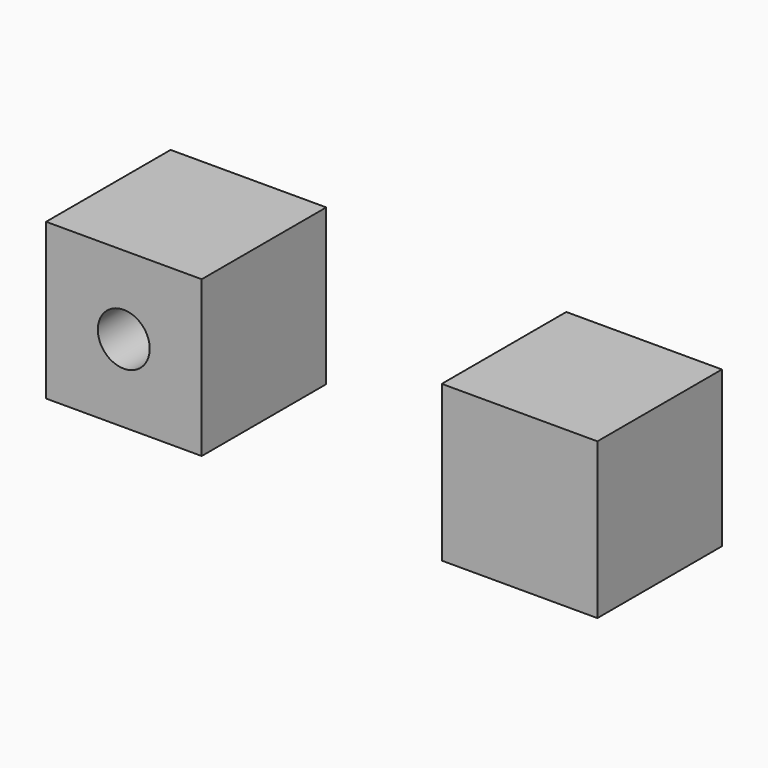
from build123d import *

# Parameters (mm, degrees)
F0_W      = 76.2
F0_H      = 76.2
F1_DEPTH  = 76.2
F4_D      = 25.4
F5_W      = 25.4
F5_H      = 25.4
F6_DEPTH  = 12.7
F7_R      = 12.7
F8_DEPTH  = 12.7
F9_W      = 76.2
F9_H      = 76.2
F10_DEPTH = 76.2


with BuildPart() as f1:
    # F0 (on Top) → F1 (new body)
    with BuildSketch(Plane.XY):
        with Locations((-130.014847, -124.276404)):
            Rectangle(F0_W, F0_H)
    extrude(amount=F1_DEPTH)

    # F4 (through all)
    with Locations(Plane.XZ.offset(162.376404)):
        with Locations((-130.084187, 37.944168)):
            Hole(F4_D / 2)

    # F5 (on face) → F6 (join)
    with BuildSketch(Plane(origin=(0, 0, 0), x_dir=(1, 0, 0), z_dir=(0, 0, -1))):
        with Locations((-130.014847, 124.276404)):
            Rectangle(F5_W, F5_H)
    extrude(amount=F6_DEPTH)

    # F7 (on face) → F8 (join)
    with BuildSketch(Plane(origin=(-168.114847, 0, 0), x_dir=(0, -1, 0), z_dir=(-1, 0, 0))):
        with Locations((125.857219, 38.191568)):
            Circle(F7_R)
    extrude(amount=F8_DEPTH)


with BuildPart() as f10:
    # F9 (on Right) → F10 (new body)
    with BuildSketch(Plane.YZ):
        with Locations((-92.278067, 9.90998)):
            Rectangle(F9_W, F9_H)
    extrude(amount=F10_DEPTH)


solid = Compound([f1.part, f10.part])
